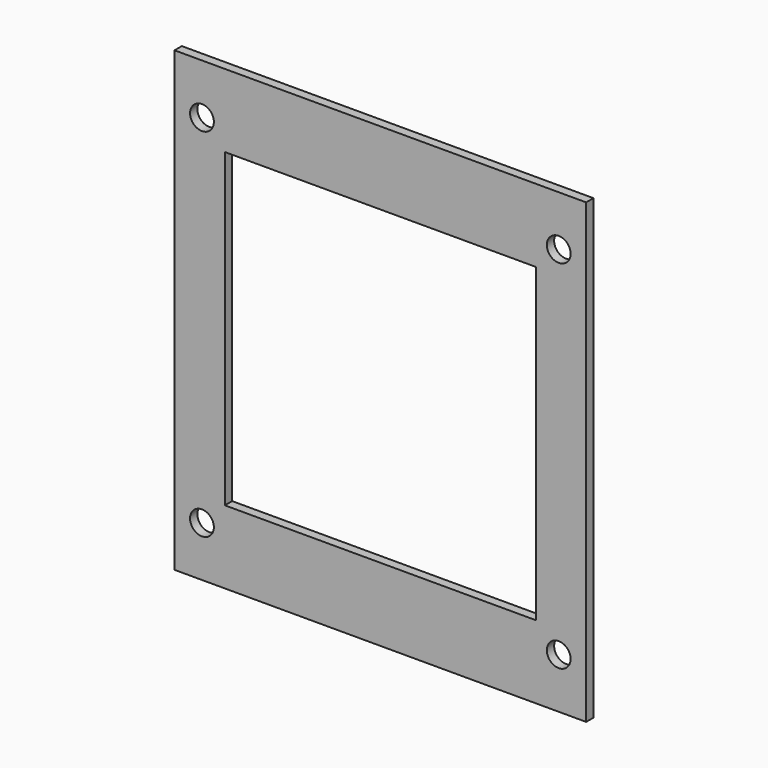
from build123d import *

# Parameters (mm, degrees)
F0_W     = 90
F0_H     = 100
F0_R     = 2.6
F0_W_2   = 68
F0_H_2   = 68
F1_DEPTH = 2


with BuildPart() as f1:
    # F0 (on Front) → F1 (new body)
    with BuildSketch(Plane.XZ):
        with Locations((36.249829, 34)):
            Rectangle(F0_W, F0_H)
        with Locations((-2.750171, -5)):
            Circle(F0_R, mode=Mode.SUBTRACT)
        with Locations((75.249829, -5)):
            Circle(F0_R, mode=Mode.SUBTRACT)
        with Locations((-2.750171, 73)):
            Circle(F0_R, mode=Mode.SUBTRACT)
        with Locations((36.249829, 34)):
            Rectangle(F0_W_2, F0_H_2, mode=Mode.SUBTRACT)
        with Locations((75.249829, 73)):
            Circle(F0_R, mode=Mode.SUBTRACT)
    extrude(amount=F1_DEPTH)


solid = f1.part
